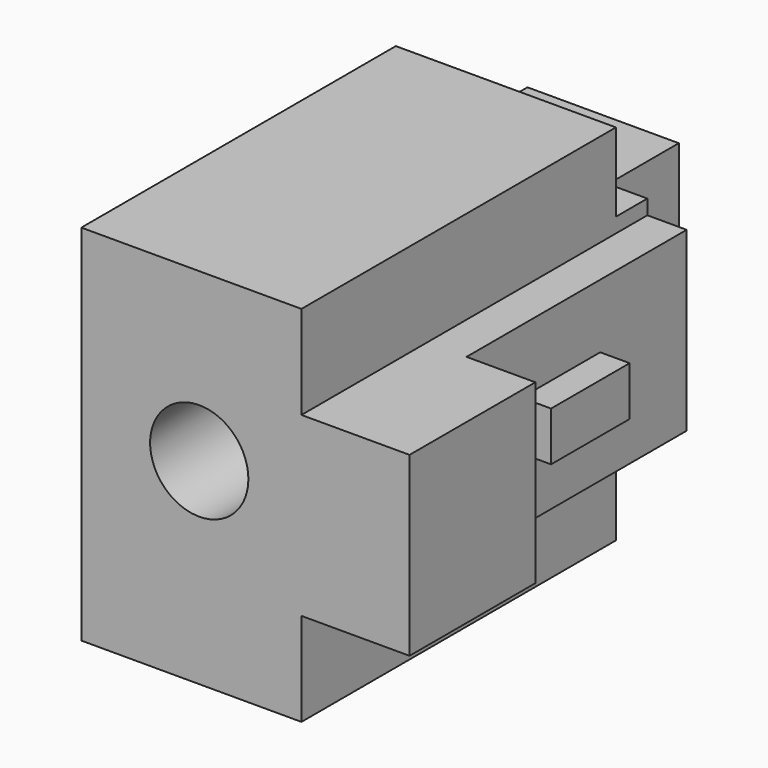
from build123d import *

# Parameters (mm, degrees)
F0_W      = 13.2
F0_H      = 18.5
F1_DEPTH  = 26.5
F2_W      = 4
F2_H      = 4.5
F2_W_2    = 1.5
F3_DEPTH  = 18.501
F4_W      = 5
F4_H      = 2.5
F5_DEPTH  = 1.5
F6_W      = 6.5
F6_H      = 4
F7_DEPTH  = 13.201
F8_W      = 3.5
F8_H      = 8
F9_DEPTH  = 18.5
F10_R     = 2.5
F11_DEPTH = 26.501
F12_W     = 5.5
F12_H     = 4.75
F13_DEPTH = 26.501


with BuildPart() as f1:
    # F0 (on Front) → F1 (new body)
    with BuildSketch(Plane.XZ):
        Rectangle(F0_W, F0_H)
    extrude(amount=F1_DEPTH)

    # F2 (on face) → F3 (cut, through all)
    with BuildSketch(Plane.XY.offset(9.25)):
        with Locations((4.6, -2.25)):
            Rectangle(F2_W, F2_H)
        with Locations((-5.85, -2.25)):
            Rectangle(F2_W_2, F2_H)
    extrude(amount=-F3_DEPTH, mode=Mode.SUBTRACT)

    # F4 (on face) → F5 (join)
    with BuildSketch(Plane.YZ.offset(6.6)):
        with Locations((-12.5, 0)):
            Rectangle(F4_W, F4_H)
    extrude(amount=F5_DEPTH)

    # F6 (on face) → F7 (cut, through all)
    with BuildSketch(Plane.YZ.offset(6.6)):
        Polygon((-4.5, -9.25), (0, -9.25), (0, -5.75), (-6.5, -5.75), (-6.5, -9.25), align=None)
        with Locations((-3.25, 7.25)):
            Rectangle(F6_W, F6_H)
    extrude(amount=-F7_DEPTH, mode=Mode.SUBTRACT)

    # F8 (on face) → F9 (join, through all)
    with BuildSketch(Plane.XY.offset(9.25)):
        with Locations((8.35, -22.5)):
            Rectangle(F8_W, F8_H)
    extrude(amount=-F9_DEPTH)

    # F10 (on face) → F11 (cut, through all)
    with BuildSketch(Plane.XZ.offset(26.5)):
        with Locations((-0.6, 0.75)):
            Circle(F10_R)
    extrude(amount=-F11_DEPTH, mode=Mode.SUBTRACT)

    # F12 (on face) → F13 (cut, through all)
    with BuildSketch(Plane.XZ.offset(26.5)):
        with Locations((7.35, 6.875)):
            Rectangle(F12_W, F12_H)
        with Locations((7.35, -6.875)):
            Rectangle(F12_W, F12_H)
    extrude(amount=-F13_DEPTH, mode=Mode.SUBTRACT)


solid = f1.part
